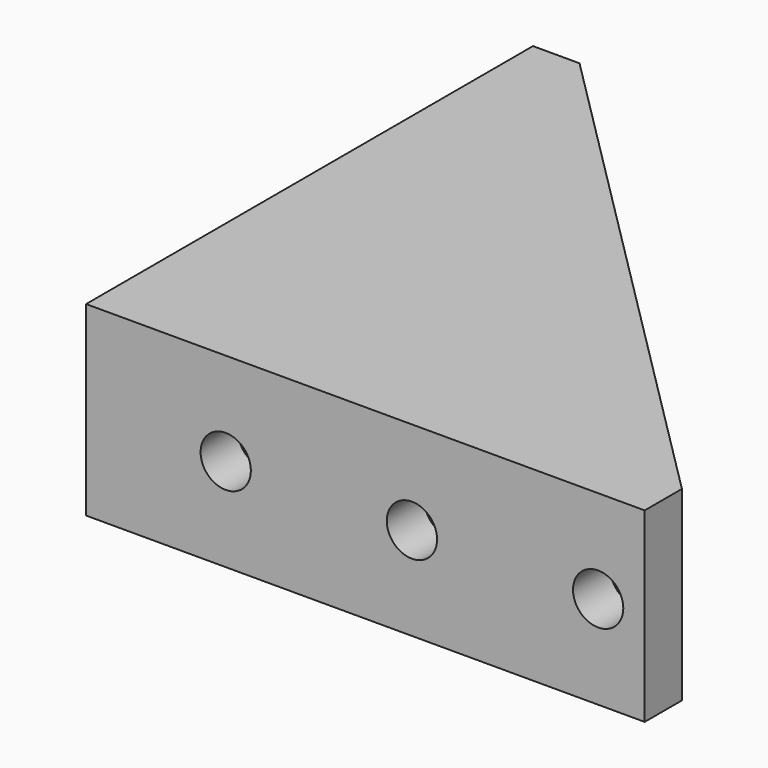
from build123d import *

# Parameters (mm, degrees)
CYLINDER001_R     = 2.7
CYLINDER001_DEPTH = 5
CYLINDER002_R     = 2.7
CYLINDER002_DEPTH = 5
CYLINDER004_R     = 2.7
CYLINDER004_DEPTH = 5
CYLINDER003_R     = 2.7
CYLINDER003_DEPTH = 5
CYLINDER005_R     = 2.7
CYLINDER005_DEPTH = 5
CYLINDER_R        = 2.7
CYLINDER_DEPTH    = 5
PAD_DEPTH         = 5
PAD001_DEPTH      = 10
PAD002_DEPTH      = 5


with BuildPart() as cylinder001:
    # Cylinder001 → Cylinder001 (new body)
    with BuildSketch(Plane(origin=(55, 0, 10), x_dir=(1, 0, 0), z_dir=(0, 1, 0))):
        Circle(CYLINDER001_R)
    extrude(amount=CYLINDER001_DEPTH)


with BuildPart() as cylinder002:
    # Cylinder002 → Cylinder002 (new body)
    with BuildSketch(Plane(origin=(0, 15, 10), x_dir=(0, -1, 0), z_dir=(1, 0, 0))):
        Circle(CYLINDER002_R)
    extrude(amount=CYLINDER002_DEPTH)


with BuildPart() as cylinder004:
    # Cylinder004 → Cylinder004 (new body)
    with BuildSketch(Plane(origin=(35, 0, 10), x_dir=(1, 0, 0), z_dir=(0, 1, 0))):
        Circle(CYLINDER004_R)
    extrude(amount=CYLINDER004_DEPTH)


with BuildPart() as cylinder003:
    # Cylinder003 → Cylinder003 (new body)
    with BuildSketch(Plane(origin=(0, 55, 10), x_dir=(0, -1, 0), z_dir=(1, 0, 0))):
        Circle(CYLINDER003_R)
    extrude(amount=CYLINDER003_DEPTH)


with BuildPart() as cylinder005:
    # Cylinder005 → Cylinder005 (new body)
    with BuildSketch(Plane(origin=(0, 35, 10), x_dir=(0, -1, 0), z_dir=(1, 0, 0))):
        Circle(CYLINDER005_R)
    extrude(amount=CYLINDER005_DEPTH)


with BuildPart() as compound:
    # Cylinder → Cylinder (new body)
    with BuildSketch(Plane(origin=(15, 0, 10), x_dir=(1, 0, 0), z_dir=(0, 1, 0))):
        Circle(CYLINDER_R)
    extrude(amount=CYLINDER_DEPTH)

    # Compound: union Cylinder001, Cylinder002, Cylinder004, Cylinder003, Cylinder005
    add(cylinder001.part)
    add(cylinder002.part)
    add(cylinder004.part)
    add(cylinder003.part)
    add(cylinder005.part)


with BuildPart() as f_60mm_bracket:
    # Sketch → Pad (new body)
    with BuildSketch(Plane.XY):
        Polygon((0, 0), (0, 60), (5, 60), (60, 5), (60, 0), align=None)
    extrude(amount=PAD_DEPTH)

    # Sketch001 (on Face7 of Pad) → Pad001 (join)
    with BuildSketch(Plane.XY.offset(5)):
        Polygon((0, 60), (0, 0), (60, 0), (60, 5), (5, 5), (5, 60), align=None)
    extrude(amount=PAD001_DEPTH)

    # Sketch002 (on Face10 of Pad001) → Pad002 (join)
    with BuildSketch(Plane.XY.offset(15)):
        Polygon((0, 60), (0, 0), (60, 0), (60, 5), (5, 60), align=None)
    extrude(amount=PAD002_DEPTH)

    # Cut: cut Compound
    add(compound.part, mode=Mode.SUBTRACT)


solid = f_60mm_bracket.part
